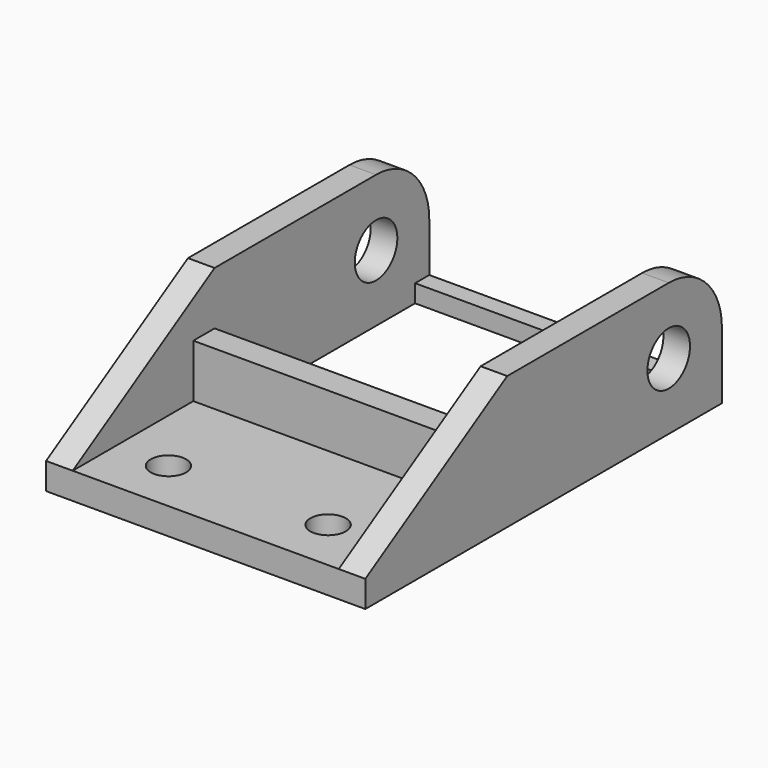
from build123d import *

# Parameters (mm, degrees)
F0_W     = 15
F0_H     = 20
F0_R     = 2
F1_DEPTH = 3
F2_R     = 3
F3_DEPTH = 3
F5_W     = 30
F5_H     = 3
F6_DEPTH = 6
F7_W     = 2
F7_H     = 2
F8_DEPTH = 30


with BuildPart() as f1:
    # F0 (on Top) → F1 (new body)
    with BuildSketch(Plane.XY):
        with Locations((7.5, -0.262594)):
            Rectangle(F0_W, F0_H)
        with Locations((9, -4.262594)):
            Circle(F0_R, mode=Mode.SUBTRACT)
    extrude(amount=F1_DEPTH)

    # F2 (on face) → F3 (join)
    with BuildSketch(Plane.YZ.offset(15)):
        Polygon((-10.262594, 0), (0, 0), (9.737406, 0), (9.737406, 15), (-10.262594, 3), align=None)
        with BuildLine():
            Line((9.737406, 15), (9.737406, 0))
            Line((9.737406, 0), (40, 0))
            Line((40, 0), (40, 7.5))
            ThreePointArc((40, 7.5), (37.803301, 12.803301), (32.5, 15))
            Line((32.5, 15), (9.737406, 15))
        make_face()
        with Locations((32.5, 7.5)):
            Circle(F2_R, mode=Mode.SUBTRACT)
    extrude(amount=F3_DEPTH)

    # F4: F1 across plane


with BuildPart() as f1_1:
    add(f1.part)
    add(f1.part.mirror(Plane.YZ))

    # F5 (on face) → F6 (join)
    with BuildSketch(Plane.XY.offset(3)):
        with Locations((0, 8.237406)):
            Rectangle(F5_W, F5_H)
    extrude(amount=F6_DEPTH)

    # F7 (on face) → F8 (join, through all)
    with BuildSketch(Plane(origin=(15, 0, 0), x_dir=(0, -1, 0), z_dir=(-1, 0, 0))):
        with Locations((-39, 1)):
            Rectangle(F7_W, F7_H)
    extrude(amount=F8_DEPTH)


solid = f1_1.part
